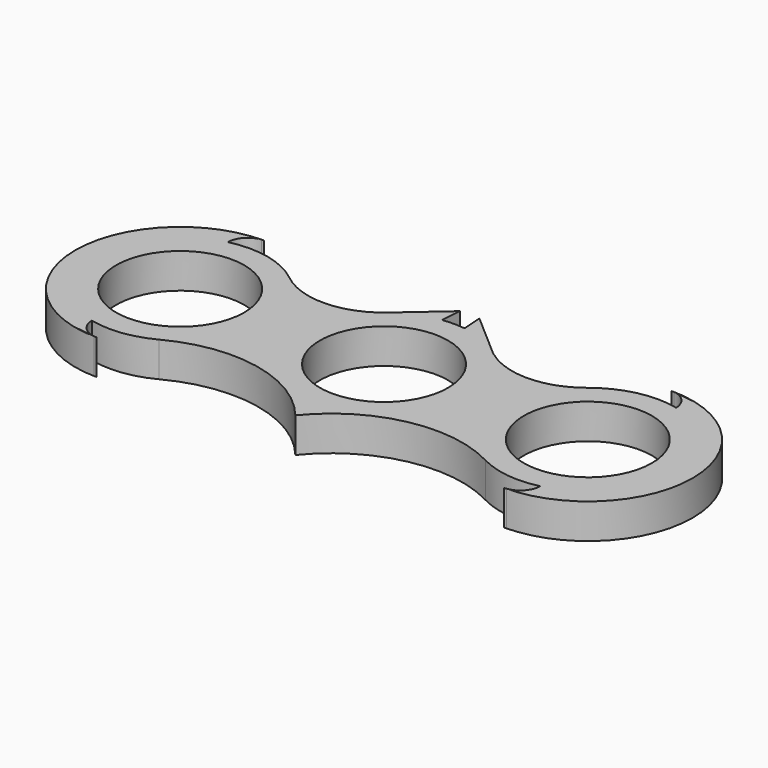
from build123d import *

# Parameters (mm, degrees)
F0_R     = 11
F1_DEPTH = 6


with BuildPart() as f1:
    # F0 (on Top) → F1 (new body)
    with BuildSketch(Plane.XY):
        with BuildLine():
            ThreePointArc((25.616028, 11.702182), (17.75938, 8.847006), (9.788557, 11.365921))
            ThreePointArc((9.788557, 11.365921), (9.359952, 11.69459), (8.945369, 12.04078))
            Line((8.945369, 12.04078), (1.680186, 18.368172))
            Line((1.680186, 18.368172), (1.921089, 14.876472))
            ThreePointArc((1.921089, 14.876472), (0, 15), (-1.921089, 14.876472))
            Line((-1.921089, 14.876472), (-1.680186, 18.368172))
            Line((-1.680186, 18.368172), (-8.945369, 12.04078))
            ThreePointArc((-8.945369, 12.04078), (-17.219263, 8.846754), (-25.616028, 11.702182))
            ThreePointArc((-25.616028, 11.702182), (-31.723141, 14.637698), (-38.498938, 14.586207))
            ThreePointArc((-38.498938, 14.586207), (-37.444205, 17.005167), (-35, 18))
            ThreePointArc((-35, 18), (-53, 0), (-35, -18))
            ThreePointArc((-35, -18), (-37.444205, -17.005167), (-38.498938, -14.586207))
            ThreePointArc((-38.498938, -14.586207), (-33.129234, -14.882884), (-28, -13.266499))
            ThreePointArc((-28, -13.266499), (-12.968165, -11.127362), (0, -19.024112))
            ThreePointArc((0, -19.024112), (12.968165, -11.127362), (28, -13.266499))
            ThreePointArc((28, -13.266499), (33.129234, -14.882884), (38.498938, -14.586207))
            ThreePointArc((38.498938, -14.586207), (37.444205, -17.005167), (35, -18))
            ThreePointArc((35, -18), (53, 0), (35, 18))
            ThreePointArc((35, 18), (37.444205, 17.005167), (38.498938, 14.586207))
            ThreePointArc((38.498938, 14.586207), (31.723141, 14.637698), (25.616028, 11.702182))
        make_face()
        with Locations((-35, 0)):
            Circle(F0_R, mode=Mode.SUBTRACT)
        Circle(F0_R, mode=Mode.SUBTRACT)
        with Locations((35, 0)):
            Circle(F0_R, mode=Mode.SUBTRACT)
    extrude(amount=F1_DEPTH)


solid = f1.part
